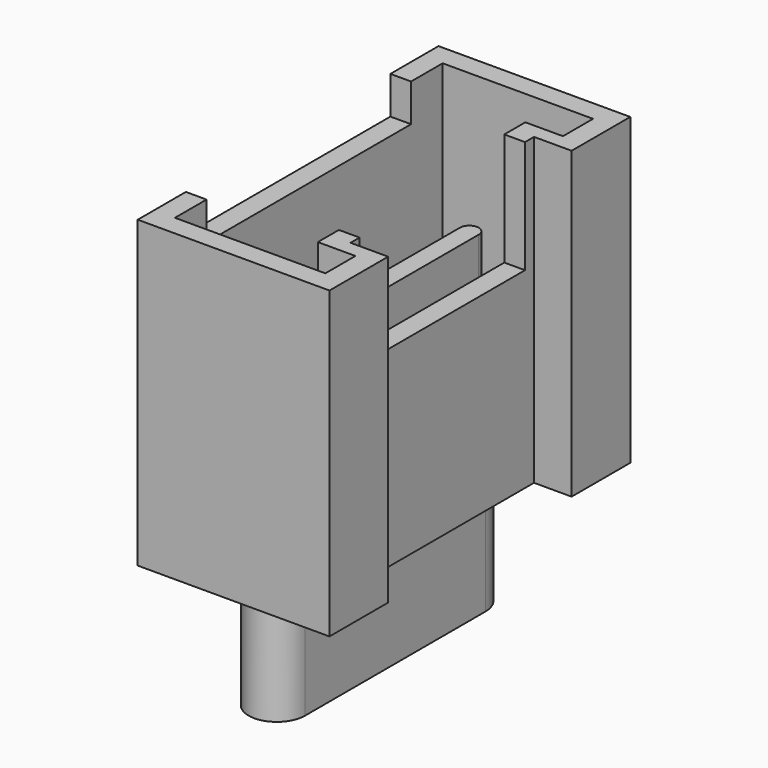
from build123d import *

# Parameters (mm, degrees)
PAD005_DEPTH            = 8.1
POCKET003_DEPTH         = 7
SKETCH010_W             = 6.8
SKETCH010_H             = 5
POCKET006_DEPTH         = 1
SKETCH011_W             = 5.5
SKETCH011_H             = 3
POCKET005_DEPTH         = 3
PAD006_DEPTH            = 4
PAD007_DEPTH            = 3.4
BODY007_PLACEMENT_ANGLE = 90


with BuildPart() as part:
    # Sketch008 → Pad005 (new body)
    with BuildSketch(Plane.XY):
        Polygon((-5, 0), (-3.05, 0), (-3.05, 1), (3.05, 1), (3.05, 0), (5, 0), (5, 5.1), (-5, 5.1), align=None)
    extrude(amount=PAD005_DEPTH)

    # Sketch009 (on Face10 of Pad005) → Pocket003 (cut)
    with BuildSketch(Plane.XY.offset(8.1)):
        Polygon((-4.45, 0.55), (-3.45, 0.55), (-3.45, 1.55), (3.45, 1.55), (3.45, 0.55), (4.45, 0.55), (4.45, 4.55), (-4.45, 4.55), align=None)
    extrude(amount=-POCKET003_DEPTH, mode=Mode.SUBTRACT)

    # Sketch010 (on Face5 of Pocket003) → Pocket006 (cut)
    with BuildSketch(Plane.XY.offset(8.1)):
        with Locations((0, 5.5)):
            Rectangle(SKETCH010_W, SKETCH010_H)
    extrude(amount=-POCKET006_DEPTH, mode=Mode.SUBTRACT)

    # Sketch011 (on Face5 of Pocket006) → Pocket005 (cut)
    with BuildSketch(Plane.XY.offset(8.1)):
        with Locations((0, 1.5)):
            Rectangle(SKETCH011_W, SKETCH011_H)
    extrude(amount=-POCKET005_DEPTH, mode=Mode.SUBTRACT)

    # Sketch015 (on Face26 of Pocket005) → Pad006 (join)
    with BuildSketch(Plane.XY.offset(1.1)):
        with BuildLine():
            ThreePointArc((-3.4, 3.25), (-3.65, 3), (-3.4, 2.75))
            Line((-3.4, 2.75), (3.4, 2.75))
            ThreePointArc((3.4, 2.75), (3.65, 3), (3.4, 3.25))
            Line((-3.4, 3.25), (3.4, 3.25))
        make_face()
    extrude(amount=PAD006_DEPTH)

    # Sketch014 → Pad007 (join)
    with BuildSketch(Plane.XY):
        with BuildLine():
            ThreePointArc((-3, 3.75), (-3.75, 3), (-3, 2.25))
            Line((-3, 2.25), (3, 2.25))
            ThreePointArc((3, 2.25), (3.75, 3), (3, 3.75))
            Line((-3, 3.75), (3, 3.75))
        make_face()
    extrude(amount=-PAD007_DEPTH)


with BuildPart() as part_1:
    # Body007 placement: moved
    add(part.part.moved(Location((-13.8, 0, 1.6))).rotate(Axis((-13.8, 0, 1.6), (0, 0, 1)), BODY007_PLACEMENT_ANGLE))


with BuildPart() as part_2:
    # Clone004 placement: moved
    add(part_1.part.moved(Location((-0.2, 0, 0))))


with BuildPart() as part_3:
    # Body011 placement: moved
    add(part_2.part.moved(Location((31.2, 0, 0))))


solid = part_3.part
